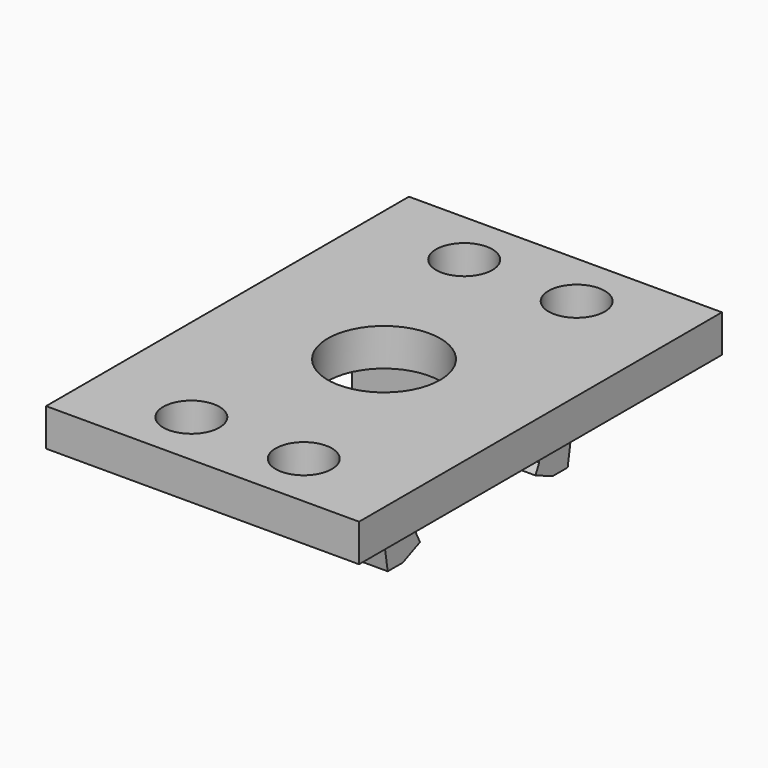
from build123d import *

# Parameters (mm, degrees)
F0_W     = 16.7
F0_H     = 24.2
F0_R     = 1.5
F0_R_2   = 3
F1_DEPTH = 2
F4_DEPTH = 5


with BuildPart() as f1:
    # F0 (on Top) → F1 (new body)
    with BuildSketch(Plane.XY):
        Rectangle(F0_W, F0_H)
        with Locations((-3, -9.1)):
            Circle(F0_R, mode=Mode.SUBTRACT)
        with Locations((3, -9.1)):
            Circle(F0_R, mode=Mode.SUBTRACT)
        with Locations((-3, 9.1)):
            Circle(F0_R, mode=Mode.SUBTRACT)
        Circle(F0_R_2, mode=Mode.SUBTRACT)
        with Locations((3, 9.1)):
            Circle(F0_R, mode=Mode.SUBTRACT)
    extrude(amount=F1_DEPTH)

    # F3 (on Right) → F4 (join, symmetric)
    with BuildSketch(Plane.YZ):
        Polygon((-4.1, 0), (-6.64, 0), (-6, -3.9), (-5, -3.9), (-3.85, -3.4), (-4.1, -2.9), align=None)
        Polygon((6.64, 0), (4.1, 0), (4.1, -2.9), (3.85, -3.4), (5, -3.9), (6, -3.9), align=None)
    extrude(amount=F4_DEPTH, both=True)


solid = f1.part
